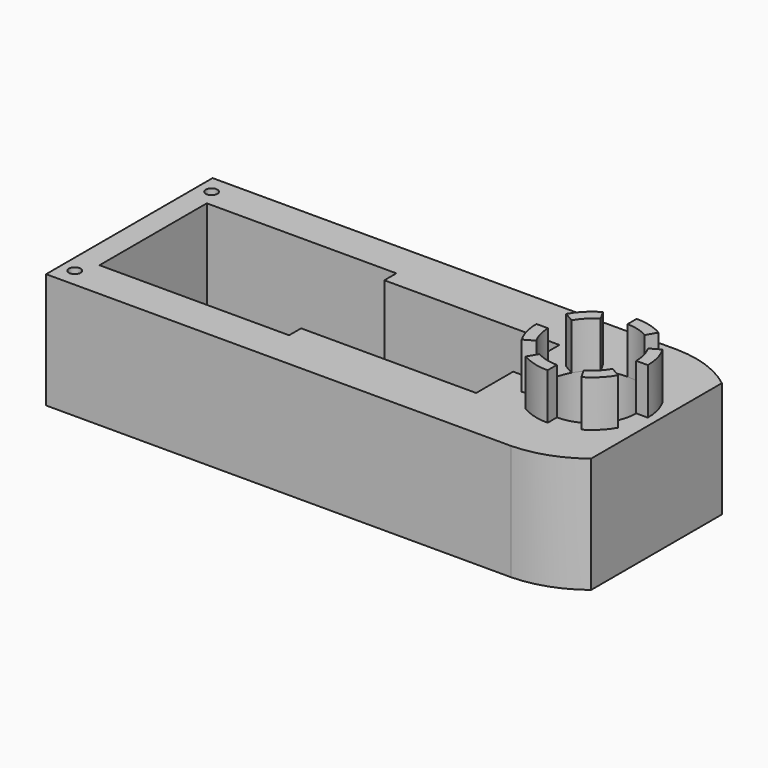
from build123d import *

# Parameters (mm, degrees)
CYLINDER_R        = 2.5
CYLINDER_DEPTH    = 70
CYLINDER001_R     = 2.5
CYLINDER001_DEPTH = 70
BOX004_W          = 68.15
BOX004_H          = 15
BOX004_DEPTH      = 50
BOX008_W          = 30
BOX008_H          = 100
BOX008_DEPTH      = 70
EXTRUDE003_DEPTH  = 25
BOX006_W          = 40
BOX006_H          = 120
BOX006_DEPTH      = 60
TUBE_R            = 45
TUBE_R_2          = 19.07
TUBE_DEPTH        = 50
BOX001_W          = 82
BOX001_H          = 58
BOX001_DEPTH      = 44.4
BOX007_W          = 5
BOX007_H          = 5
BOX007_DEPTH      = 44.4
SKETCH001_R       = 5
EXTRUDE001_DEPTH  = 4
EXTRUDE002_DEPTH  = 15
SKETCH_R          = 12.3
EXTRUDE_DEPTH     = 5
BOX_W             = 75.7
BOX_H             = 45
BOX_DEPTH         = 44.4
BOX002_W          = 175
BOX002_H          = 90
BOX002_DEPTH      = 50
BOX005_W          = 68.15
BOX005_H          = 15
BOX005_DEPTH      = 50


with BuildPart() as throughholecylinder2:
    # Cylinder → Cylinder (new body)
    with BuildSketch(Plane(origin=(-86, -18, -20), x_dir=(1, 0, 0), z_dir=(0, 0, 1))):
        Circle(CYLINDER_R)
    extrude(amount=CYLINDER_DEPTH)


with BuildPart() as throughholecylinder1:
    # Cylinder001 → Cylinder001 (new body)
    with BuildSketch(Plane(origin=(-86, 56, -20), x_dir=(1, 0, 0), z_dir=(0, 0, 1))):
        Circle(CYLINDER001_R)
    extrude(amount=CYLINDER001_DEPTH)


with BuildPart() as cube004:
    # Box004 → Box004 (new body)
    with BuildSketch(Plane(origin=(41, -26, -10), x_dir=(1, 0, 0), z_dir=(0, 0, 1))):
        with Locations((34.075, 7.5)):
            Rectangle(BOX004_W, BOX004_H)
    extrude(amount=BOX004_DEPTH)


with BuildPart() as steeringshaftcutter:
    # Box008 → Box008 (new body)
    with BuildSketch(Plane(origin=(136, -31, -14), x_dir=(1, 0, 0), z_dir=(0, 0, 1))):
        with Locations((15, 50)):
            Rectangle(BOX008_W, BOX008_H)
    extrude(amount=BOX008_DEPTH)


with BuildPart() as fingers:
    # Sketch004 (on Face2 of Tube) → Extrude003 (new body)
    with BuildSketch(Plane(origin=(120.15, 19, 40), x_dir=(1, 0, 0), z_dir=(0, 0, 1))):
        with BuildLine():
            Line((16.519435, -9.5375), (20.849562, -12.0375))
            ThreePointArc((12.0375, -20.849562), (17.023596, -17.023596), (20.849562, -12.0375))
            Line((12.0375, -20.849562), (9.5375, -16.519435))
            ThreePointArc((9.5375, -16.519435), (13.488062, -13.488062), (16.519435, -9.5375))
        make_face()
        with BuildLine():
            Line((0, -24.075), (0, -19.07))
            ThreePointArc((-9.535, -16.515104), (-4.935679, -18.420206), (0, -19.07))
            Line((-9.535, -16.515104), (-12.0375, -20.849562))
            ThreePointArc((-12.0375, -20.849562), (-6.231069, -23.254664), (0, -24.075))
        make_face()
        with BuildLine():
            Line((-20.849562, -12.0375), (-16.515104, -9.535))
            ThreePointArc((-19.07, 0), (-18.420206, -4.935679), (-16.515104, -9.535))
            Line((-19.07, 0), (-24.075, 0))
            ThreePointArc((-24.075, 0), (-23.254664, -6.231069), (-20.849562, -12.0375))
        make_face()
        with BuildLine():
            Line((-16.519435, 9.5375), (-20.849562, 12.0375))
            ThreePointArc((-12.0375, 20.849562), (-17.023596, 17.023596), (-20.849562, 12.0375))
            Line((-12.0375, 20.849562), (-9.5375, 16.519435))
            ThreePointArc((-9.5375, 16.519435), (-13.488062, 13.488062), (-16.519435, 9.5375))
        make_face()
        with BuildLine():
            Line((0, 24.075), (0, 19.075))
            ThreePointArc((9.5375, 16.519435), (4.936973, 18.425035), (0, 19.075))
            Line((9.5375, 16.519435), (12.0375, 20.849562))
            ThreePointArc((12.0375, 20.849562), (6.231069, 23.254664), (0, 24.075))
        make_face()
        with BuildLine():
            Line((16.515104, 9.535), (20.849562, 12.0375))
            ThreePointArc((24.075, 0), (23.254664, 6.231069), (20.849562, 12.0375))
            Line((19.07, 0), (24.075, 0))
            ThreePointArc((19.07, 0), (18.420206, 4.935679), (16.515104, 9.535))
        make_face()
    extrude(amount=EXTRUDE003_DEPTH)


with BuildPart() as fingers_1:
    # Extrude003 placement: moved
    add(fingers.part.moved(Location((0, 0, -5))))


with BuildPart() as obj1:
    # Box006 → Box006 (new body)
    with BuildSketch(Plane(origin=(55, -34, -17), x_dir=(1, 0, 0), z_dir=(0, 0, 1))):
        with Locations((20, 60)):
            Rectangle(BOX006_W, BOX006_H)
    extrude(amount=BOX006_DEPTH)


with BuildPart() as steeringshaftcutdown:
    # Tube → Tube (new body)
    with BuildSketch(Plane(origin=(120.15, 19, -10), x_dir=(1, 0, 0), z_dir=(0, 0, 1))):
        Circle(TUBE_R)
        Circle(TUBE_R_2, mode=Mode.SUBTRACT)
    extrude(amount=TUBE_DEPTH)

    # Cut001: cut obj1
    add(obj1.part, mode=Mode.SUBTRACT)

    # Fusion004: union Fingers
    add(fingers_1.part)


with BuildPart() as steeringshaftcutdown_1:
    # Fusion004 placement: moved
    add(steeringshaftcutdown.part.moved(Location((-12, 0, 0))))

    # Cut002: cut SteeringShaftCutter
    add(steeringshaftcutter.part, mode=Mode.SUBTRACT)


with BuildPart() as motorhead:
    # Box001 → Box001 (new body)
    with BuildSketch(Plane(origin=(-82, -9.63, 0), x_dir=(1, 0, 0), z_dir=(0, 0, 1))):
        with Locations((41, 29)):
            Rectangle(BOX001_W, BOX001_H)
    extrude(amount=BOX001_DEPTH)


with BuildPart() as obj2:
    # Box007 → Box007 (new body)
    with BuildSketch(Plane(origin=(75.7, 16.87, 0), x_dir=(1, 0, 0), z_dir=(0, 0, 1))):
        with Locations((2.5, 2.5)):
            Rectangle(BOX007_W, BOX007_H)
    extrude(amount=BOX007_DEPTH)


with BuildPart() as obj3:
    # Sketch001 (on Face3 of Extrude) → Extrude001 (new body)
    with BuildSketch(Plane.XY.offset(49.4)):
        with Locations((-58.7, 20.37)):
            Circle(SKETCH001_R)
    extrude(amount=EXTRUDE001_DEPTH)


with BuildPart() as obj4:
    # Sketch002 (on Face3 of Extrude001) → Extrude002 (new body)
    with BuildSketch(Plane.XY.offset(53.4)):
        with BuildLine():
            Line((-62.7, 23.37), (-62.7, 17.37))
            ThreePointArc((-62.7, 17.37), (-53.7, 20.37), (-62.7, 23.37))
        make_face()
    extrude(amount=EXTRUDE002_DEPTH)


with BuildPart() as motorshaftassembly:
    # Sketch (on Face6 of Box001) → Extrude (new body)
    with BuildSketch(Plane(origin=(-82, -9.63, 44.4), x_dir=(1, 0, 0), z_dir=(0, 0, 1))):
        with Locations((23.3, 30)):
            Circle(SKETCH_R)
    extrude(amount=EXTRUDE_DEPTH)

    # Fusion: union obj3, obj4
    add(obj3.part)
    add(obj4.part)


with BuildPart() as motor:
    # Box → Box (new body)
    with BuildSketch(Plane(origin=(0, -3.13, 0), x_dir=(1, 0, 0), z_dir=(0, 0, 1))):
        with Locations((37.85, 22.5)):
            Rectangle(BOX_W, BOX_H)
    extrude(amount=BOX_DEPTH)

    # Fusion005: union MotorHead, obj2, MotorShaftAssembly
    add(motorhead.part)
    add(obj2.part)
    add(motorshaftassembly.part)


with BuildPart() as steeringshaftmotormount:
    # Box002 → Box002 (new body)
    with BuildSketch(Plane(origin=(-92, -26, -10), x_dir=(1, 0, 0), z_dir=(0, 0, 1))):
        with Locations((87.5, 45)):
            Rectangle(BOX002_W, BOX002_H)
    extrude(amount=BOX002_DEPTH)

    # Cut: cut Motor
    add(motor.part, mode=Mode.SUBTRACT)

    # Fusion006: union SteeringShaftCutDown
    add(steeringshaftcutdown_1.part)


with BuildPart() as cut004:
    # Box005 → Box005 (new body)
    with BuildSketch(Plane(origin=(41, 49, -10), x_dir=(1, 0, 0), z_dir=(0, 0, 1))):
        with Locations((34.075, 7.5)):
            Rectangle(BOX005_W, BOX005_H)
    extrude(amount=BOX005_DEPTH)

    # Fusion007: union Cube004, SteeringShaftMotorMount
    add(cube004.part)
    add(steeringshaftmotormount.part)

    # Cut003: cut ThroughHoleCylinder1
    add(throughholecylinder1.part, mode=Mode.SUBTRACT)

    # Cut004: cut ThroughHoleCylinder2
    add(throughholecylinder2.part, mode=Mode.SUBTRACT)


solid = cut004.part
